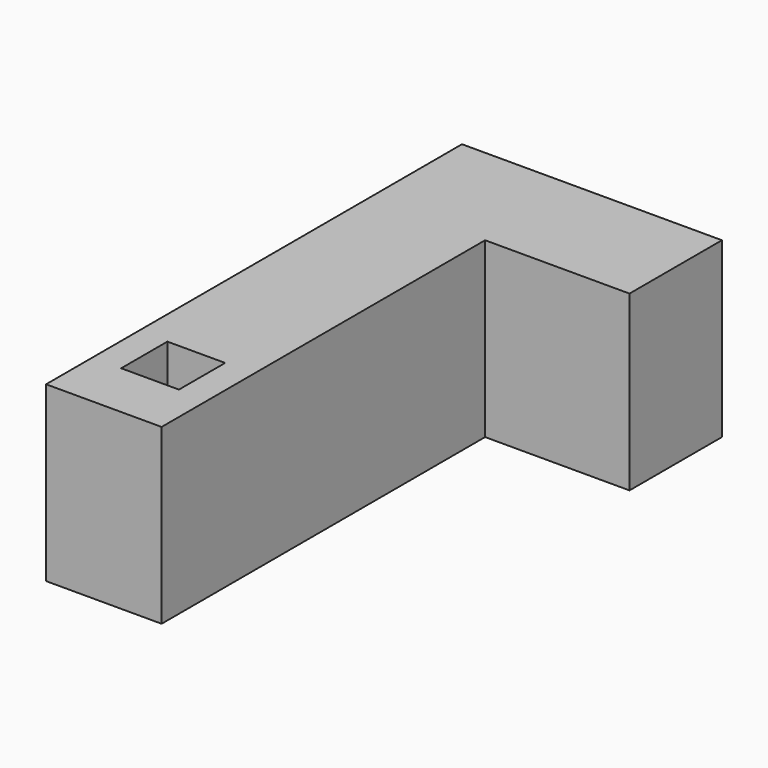
from build123d import *

# Parameters (mm, degrees)
BOX021003010009_W     = 10
BOX021003010009_H     = 10
BOX021003010009_DEPTH = 12
BOX021003010006_W     = 45
BOX021003010006_H     = 20
BOX021003010006_DEPTH = 30
BOX021003010005_W     = 20
BOX021003010005_H     = 90
BOX021003010005_DEPTH = 30


with BuildPart() as obj1:
    # Box021003010009 → Box021003010009 (new body)
    with BuildSketch(Plane(origin=(10, 125, 20), x_dir=(1, 0, 0), z_dir=(0, 0, 1))):
        with Locations((5, 5)):
            Rectangle(BOX021003010009_W, BOX021003010009_H)
    extrude(amount=BOX021003010009_DEPTH)


with BuildPart() as obj2:
    # Box021003010006 → Box021003010006 (new body)
    with BuildSketch(Plane(origin=(5, 185, 0), x_dir=(1, 0, 0), z_dir=(0, 0, 1))):
        with Locations((22.5, 10)):
            Rectangle(BOX021003010006_W, BOX021003010006_H)
    extrude(amount=BOX021003010006_DEPTH)


with BuildPart() as obj3:
    # Box021003010005 → Box021003010005 (new body)
    with BuildSketch(Plane(origin=(5, 115, 0), x_dir=(1, 0, 0), z_dir=(0, 0, 1))):
        with Locations((10, 45)):
            Rectangle(BOX021003010005_W, BOX021003010005_H)
    extrude(amount=BOX021003010005_DEPTH)

    # Fusion007: union obj2
    add(obj2.part)

    # Cut011: cut obj1
    add(obj1.part, mode=Mode.SUBTRACT)


solid = obj3.part
